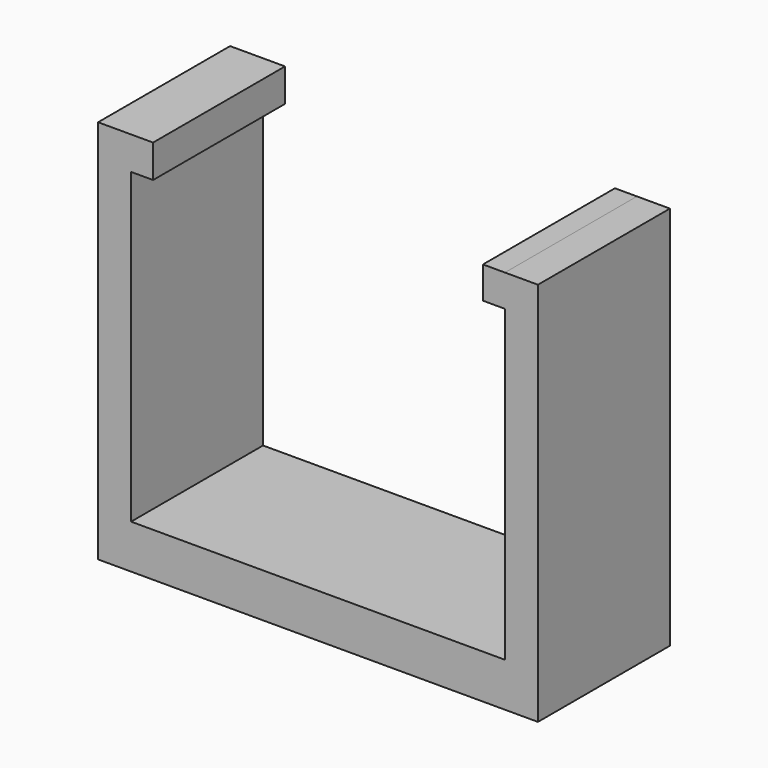
from build123d import *

# Parameters (mm, degrees)
F0_W     = 40
F0_H     = 15
F1_DEPTH = 4
F2_W     = 3
F2_H     = 15
F3_DEPTH = 31
F4_W     = 15
F4_H     = 3
F5_DEPTH = 2
F6_W     = 15
F6_H     = 2.906021
F7_DEPTH = 2


with BuildPart() as f1:
    # F0 (on Top) → F1 (new body)
    with BuildSketch(Plane.XY):
        with Locations((-24.917957, 15.458702)):
            Rectangle(F0_W, F0_H)
    extrude(amount=F1_DEPTH)

    # F2 (on face) → F3 (join)
    with BuildSketch(Plane.XY.offset(4)):
        with Locations((-43.417957, 15.458702)):
            Rectangle(F2_W, F2_H)
        with Locations((-6.417957, 15.458702)):
            Rectangle(F2_W, F2_H)
    extrude(amount=F3_DEPTH)

    # F4 (on face) → F5 (join)
    with BuildSketch(Plane.YZ.offset(-41.917957)):
        with Locations((15.458702, 33.5)):
            Rectangle(F4_W, F4_H)
    extrude(amount=F5_DEPTH)

    # F6 (on face) → F7 (join)
    with BuildSketch(Plane(origin=(-7.917957, 0, 0), x_dir=(0, -1, 0), z_dir=(-1, 0, 0))):
        with Locations((-15.458702, 33.546989)):
            Rectangle(F6_W, F6_H)
    extrude(amount=F7_DEPTH)


solid = f1.part
